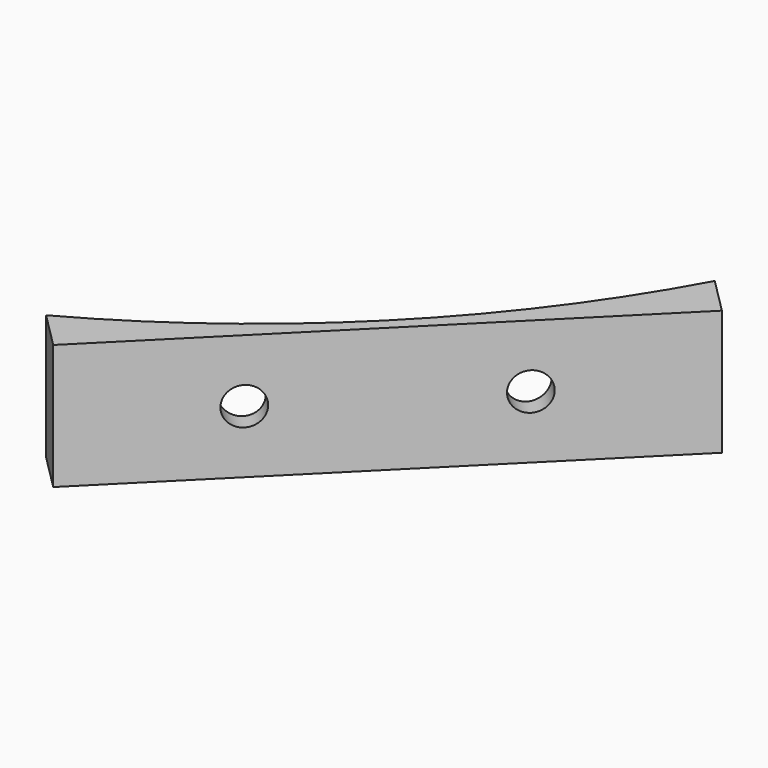
from build123d import *

# Parameters (mm, degrees)
CYLINDER1739_R              = 1.5
CYLINDER1739_DEPTH          = 50
COMPOUND881_PLACEMENT_ANGLE = 225
CYLINDER1740_R              = 1.5
CYLINDER1740_DEPTH          = 50
COMPOUND882_PLACEMENT_ANGLE = 225
CYLINDER1736_R              = 74
CYLINDER1736_DEPTH          = 40
BOX690_W                    = 42
BOX690_H                    = 8
BOX690_DEPTH                = 10
COMPOUND876_PLACEMENT_ANGLE = 225


with BuildPart() as compound881:
    # Cylinder1739 → Cylinder1739 (new body)
    with BuildSketch(Plane(origin=(9, 100, 59), x_dir=(1, 0, 0), z_dir=(0, -1, 0))):
        Circle(CYLINDER1739_R)
    extrude(amount=CYLINDER1739_DEPTH)


with BuildPart() as compound881_1:
    # Compound881 placement: moved
    add(compound881.part.rotate(Axis((0, 0, 0), (0, 0, 1)), COMPOUND881_PLACEMENT_ANGLE))


with BuildPart() as compound883:
    # Cylinder1740 → Cylinder1740 (new body)
    with BuildSketch(Plane(origin=(-9, 100, 59), x_dir=(1, 0, 0), z_dir=(0, -1, 0))):
        Circle(CYLINDER1740_R)
    extrude(amount=CYLINDER1740_DEPTH)


with BuildPart() as compound883_1:
    # Compound882 placement: moved
    add(compound883.part.rotate(Axis((0, 0, 0), (0, 0, 1)), COMPOUND882_PLACEMENT_ANGLE))

    # Compound883: union Compound881
    add(compound881_1.part)


with BuildPart() as compound883_2:
    # Compound883 placement: moved
    add(compound883_1.part.moved(Location((0, 0, 1))))


with BuildPart() as obj1:
    # Cylinder1736 → Cylinder1736 (new body)
    with BuildSketch(Plane.XY.offset(44)):
        Circle(CYLINDER1736_R)
    extrude(amount=CYLINDER1736_DEPTH)


with BuildPart() as cut507:
    # Box690 → Box690 (new body)
    with BuildSketch(Plane(origin=(-21, -23, 22), x_dir=(1, 0, 0), z_dir=(0, 0, 1))):
        with Locations((21, 4)):
            Rectangle(BOX690_W, BOX690_H)
    extrude(amount=BOX690_DEPTH)


with BuildPart() as cut507_1:
    # Compound876 placement: moved
    add(cut507.part.moved(Location((63.64, -63.64, 43))).rotate(Axis((63.64, -63.64, 43), (0, 0, 1)), COMPOUND876_PLACEMENT_ANGLE))

    # Cut506: cut obj1
    add(obj1.part, mode=Mode.SUBTRACT)


with BuildPart() as cut507_2:
    # Cut506 placement: moved
    add(cut507_1.part.moved(Location((0, 0, -10))))

    # Cut507: cut Compound883
    add(compound883_2.part, mode=Mode.SUBTRACT)


solid = cut507_2.part
